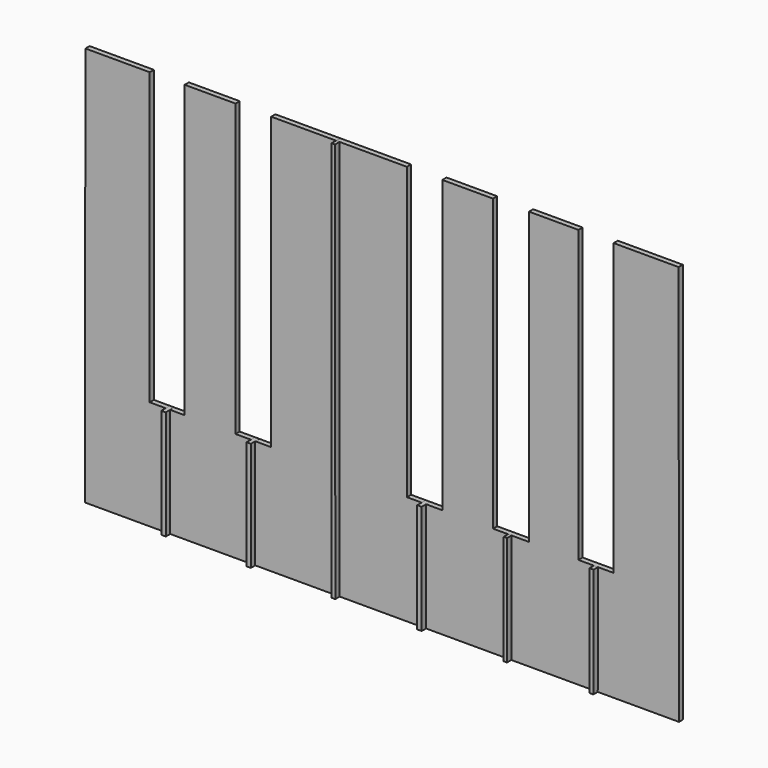
from build123d import *

# Parameters (mm, degrees)
F2_W     = 0.958736
F2_H     = 24.159799
F2_W_2   = 0.987552
F2_H_2   = 24.185501
F5_DEPTH = 2.37246
F6_DEPTH = 1.15351


with BuildPart() as f5:
    # F4 (on face) + F3 (on face) + F2 (on face) → F5 (new body)
    with BuildSketch(Plane.XZ):
        Polygon((-12.325477, 44.224747), (-13.075081, 44.232495), (-13.075081, -44.251878), (-12.259957, -44.251878), align=None)
    with BuildSketch(Plane.XZ):
        Polygon((24.972295, -20.003652), (24.935409, -44.251196), (25.6788, -44.257718), (25.715694, -20.004783), align=None)
        Polygon((43.925594, -19.951443), (43.888628, -44.25101), (44.784852, -44.254495), (44.82182, -19.952807), align=None)
    with BuildSketch(Plane.XZ):
        Polygon((-49.738511, -20.081127), (-50.731316, -20.090632), (-50.731316, -44.25291), (-49.738511, -44.25291), align=None)
        with Locations((-31.416784, -32.170648)):
            Rectangle(F2_W, F2_H)
        with Locations((6.343258, -32.156698)):
            Rectangle(F2_W_2, F2_H_2)
    extrude(amount=F5_DEPTH)


with BuildPart() as f6:
    # F1 (on face) → F6 (new body)
    with BuildSketch(Plane.XZ):
        Polygon((-54.271866, 44.145416), (-68.483569, 44.145416), (-68.609536, -44.251092), (62.742613, -44.251092), (62.657341, 44.246413), (48.298784, 44.246413), (48.298784, -19.949015), (40.513717, -19.949015), (40.513717, 44.284642), (29.574586, 44.284642), (29.574586, -20.003024), (21.624109, -20.003024), (21.624109, 44.230763), (10.416173, 44.230763), (10.416173, -20.06444), (2.583075, -20.06444), (2.583075, 44.230763), (-13.068596, 44.230763), (-27.40494, 44.230763), (-27.40494, -20.092715), (-35.299908, -20.092715), (-35.299908, 44.218361), (-46.543006, 44.218361), (-46.543006, -20.092715), (-54.271866, -20.092715), align=None)
    extrude(amount=F6_DEPTH)


solid = Compound([f5.part, f6.part])
